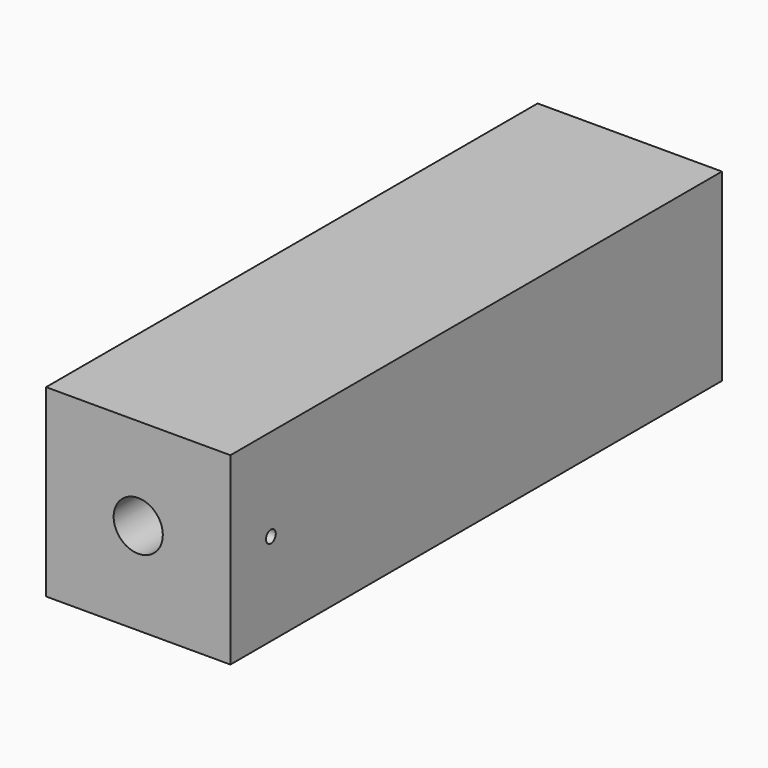
from build123d import *

# Parameters (mm, degrees)
F0_W     = 150
F0_H     = 150
F0_R     = 20
F1_DEPTH = 500
F3_D     = 10


with BuildPart() as f1:
    # F0 (on Front) → F1 (new body)
    with BuildSketch(Plane.XZ):
        with Locations((3.679909, 24.779006)):
            Rectangle(F0_W, F0_H)
        with Locations((3.679909, 24.779006)):
            Circle(F0_R, mode=Mode.SUBTRACT)
    extrude(amount=F1_DEPTH)

    # F3 (through all)
    with Locations(Plane.YZ.offset(78.679909)):
        with Locations((-458.815187, 24.779006)):
            Hole(F3_D / 2)


solid = f1.part
